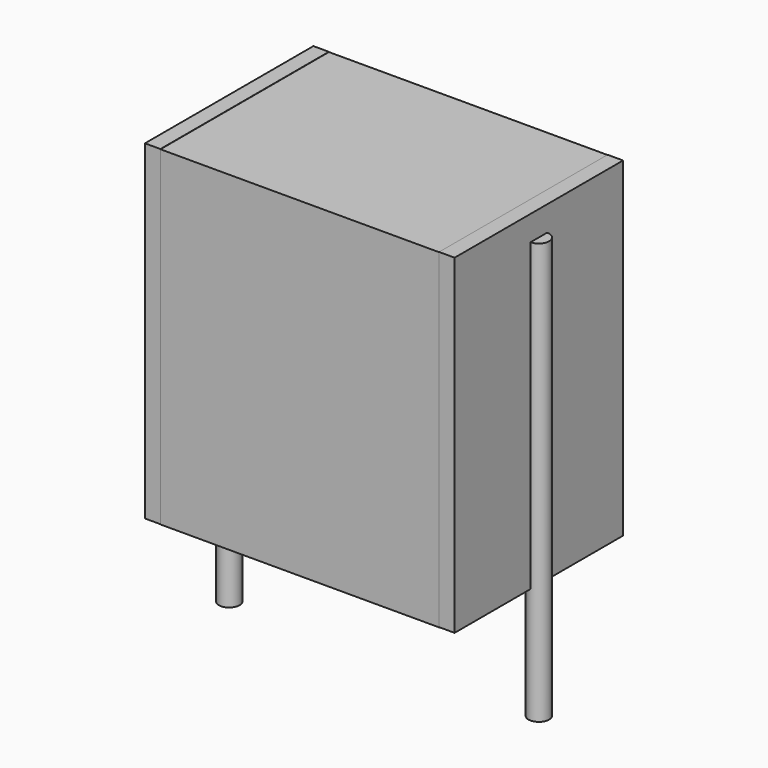
from build123d import *

# Parameters (mm, degrees)
SKETCH_W          = 6.75
SKETCH_H          = 5.1
PAD_DEPTH         = 8
SKETCH001_R       = 0.25
PAD001_DEPTH      = 7
PAD001_DEPTH_BACK = 3.2
SKETCH002_W       = 0.375
SKETCH002_H       = 5.1
PAD002_DEPTH      = 8


with BuildPart() as pad:
    # Sketch → Pad (new body)
    with BuildSketch(Plane.XY.offset(0.1)):
        with Locations((3.75, 0)):
            Rectangle(SKETCH_W, SKETCH_H)
    extrude(amount=PAD_DEPTH)


with BuildPart() as pad001:
    # Sketch001 → Pad001 (new body, two sides)
    with BuildSketch(Plane.XY.offset(0.5)) as pad001_sk:
        Circle(SKETCH001_R)
        with Locations((7.5, 0)):
            Circle(SKETCH001_R)
    extrude(amount=PAD001_DEPTH)
    extrude(pad001_sk.sketch, amount=-PAD001_DEPTH_BACK)


with BuildPart() as pad002:
    # Sketch002 → Pad002 (new body)
    with BuildSketch(Plane.XY.offset(0.105)):
        with Locations((0.1875, 0)):
            Rectangle(SKETCH002_W, SKETCH002_H)
        with Locations((7.3125, 0)):
            Rectangle(SKETCH002_W, SKETCH002_H)
    extrude(amount=PAD002_DEPTH)


solid = Compound([pad.part, pad001.part, pad002.part])
